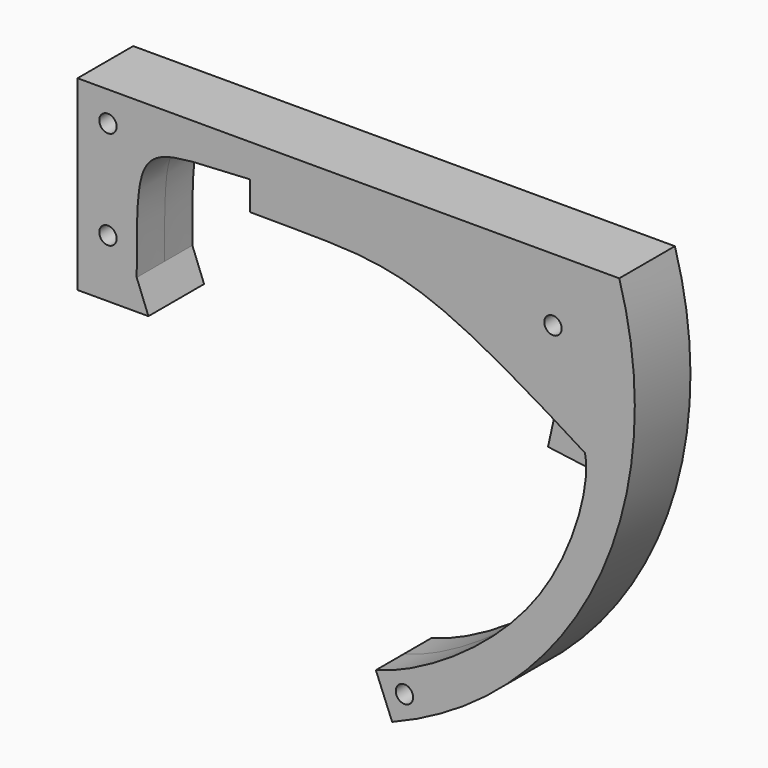
from build123d import *

# Parameters (mm, degrees)
F0_R     = 1
F1_DEPTH = 4
F2_DEPTH = 2.75


with BuildPart() as f1:
    # F0 (on Front) → F1 (new body, symmetric)
    with BuildSketch(Plane.XZ):
        with BuildLine():
            Line((62.29, 21.44), (0, 21.44))
            Line((0, 21.44), (0, 3.7288318854))
            Line((0, 3.7288318854), (0, 0))
            Line((0, 0), (8.1521131691, 0))
            Line((8.1521131691, 0), (6.8050927828, 3.4772082306))
            add(Edge.make_bspline(
                [(19.8377165943, 17.650719732), (6.7852190407, 16.9191649658), (6.7852190407, 18.1596083687), (6.8050927828, 3.4772082306)],
                knots=[0, 0, 0, 0, 19.2545504153, 19.2545504153, 19.2545504153, 19.2545504153], degree=3))
            Line((19.8377165943, 17.650719732), (19.8349936521, 14.3338086261))
            add(Edge.make_bspline(
                [(54.0466669175, 5.1537356532), (37.5011377037, 15.1662547141), (35.1628735662, 14.1844768077), (19.8349936521, 14.3338086261)],
                knots=[0, 0, 0, 0, 35.4219187426, 35.4219187426, 35.4219187426, 35.4219187426], degree=3))
            Line((54.0466669175, 5.1537356532), (57.8895868896, 2.7680707571))
            Line((57.8895868896, 2.7680707571), (58.3288028571, 2.49540775))
            add(Edge.make_bspline(
                [(34.304166128, -27.3203667793), (39.4049563141, -26.0173317216), (55.1670315062, -16.4703750294), (59.0722335282, -0.2752133185), (58.3288028571, 2.49540775)],
                knots=[0, 0, 0, 0, 0.5353864124, 1, 1, 1, 1], degree=3))
            Line((34.304166128, -27.3203667793), (36.1752310606, -31.9570807038))
            ThreePointArc((36.1752310606, -31.9570807038), (59.6028549739, -10.3302859108), (62.29, 21.44))
        make_face()
        with Locations((37.5891347185, -28.6906498222)):
            Circle(F0_R, mode=Mode.SUBTRACT)
        with Locations((3.4974589944, 6.6614318639)):
            Circle(F0_R, mode=Mode.SUBTRACT)
        with Locations((3.4974589944, 17.9918855429)):
            Circle(F0_R, mode=Mode.SUBTRACT)
        with Locations((54.66741696, 14.1964312643)):
            Circle(F0_R, mode=Mode.SUBTRACT)
    extrude(amount=F1_DEPTH, both=True)

    # F0 (on Front) → F2 (join, symmetric)
    with BuildSketch(Plane.XZ):
        Polygon((57.5603187253, 0.2925076058), (57.8895868896, 2.7680707571), (54.0466669175, 5.1537356532), (53.0996029215, 0.8858157198), align=None)
    extrude(amount=F2_DEPTH, both=True)


solid = f1.part
